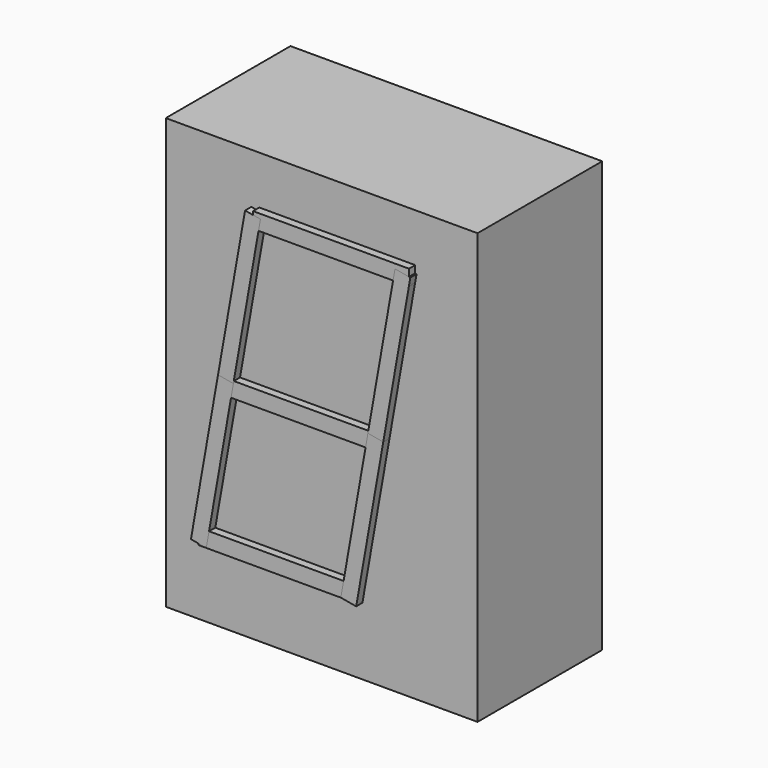
from build123d import *

# Parameters (mm, degrees)
BOX_W                  = 20
BOX_H                  = 10
BOX_DEPTH              = 27.6
BOX001_W               = 10
BOX001_H               = 4
BOX001_DEPTH           = 1
BOX002_W               = 10
BOX002_H               = 4
BOX002_DEPTH           = 1
BOX003_W               = 10
BOX003_H               = 4
BOX003_DEPTH           = 1
BOX004_W               = 10
BOX004_H               = 4
BOX004_DEPTH           = 1
BOX004_PLACEMENT_ANGLE = 280
BOX005_W               = 10
BOX005_H               = 4
BOX005_DEPTH           = 1
BOX005_PLACEMENT_ANGLE = 280
BOX006_W               = 10
BOX006_H               = 4
BOX006_DEPTH           = 1
BOX006_PLACEMENT_ANGLE = 280
BOX007_W               = 10
BOX007_H               = 4
BOX007_DEPTH           = 1
BOX007_PLACEMENT_ANGLE = 280


with BuildPart() as cube:
    # Box → Box (new body)
    with BuildSketch(Plane(origin=(2, 0, 0), x_dir=(1, 0, 0), z_dir=(0, 0, 1))):
        with Locations((10, 5)):
            Rectangle(BOX_W, BOX_H)
    extrude(amount=BOX_DEPTH)


with BuildPart() as cube001:
    # Box001 → Box001 (new body)
    with BuildSketch(Plane(origin=(4.5, -0.5, 4.5), x_dir=(1, 0, 0), z_dir=(0, 0, 1))):
        with Locations((5, 2)):
            Rectangle(BOX001_W, BOX001_H)
    extrude(amount=BOX001_DEPTH)


with BuildPart() as cube002:
    # Box002 → Box002 (new body)
    with BuildSketch(Plane(origin=(6, -0.5, 13.5), x_dir=(1, 0, 0), z_dir=(0, 0, 1))):
        with Locations((5, 2)):
            Rectangle(BOX002_W, BOX002_H)
    extrude(amount=BOX002_DEPTH)


with BuildPart() as cube003:
    # Box003 → Box003 (new body)
    with BuildSketch(Plane(origin=(8, -0.5, 23.5), x_dir=(1, 0, 0), z_dir=(0, 0, 1))):
        with Locations((5, 2)):
            Rectangle(BOX003_W, BOX003_H)
    extrude(amount=BOX003_DEPTH)


with BuildPart() as cube004:
    # Box004 → Box004 (new body)
    with BuildSketch(Plane.XY):
        with Locations((5, 2)):
            Rectangle(BOX004_W, BOX004_H)
    extrude(amount=BOX004_DEPTH)


with BuildPart() as cube004_1:
    # Box004 placement: moved
    add(cube004.part.moved(Location((5, -0.5, 4.5))).rotate(Axis((5, -0.5, 4.5), (0, 1, 0)), BOX004_PLACEMENT_ANGLE))


with BuildPart() as cube005:
    # Box005 → Box005 (new body)
    with BuildSketch(Plane.XY):
        with Locations((5, 2)):
            Rectangle(BOX005_W, BOX005_H)
    extrude(amount=BOX005_DEPTH)


with BuildPart() as cube005_1:
    # Box005 placement: moved
    add(cube005.part.moved(Location((14.616146, -0.5, 4.327554))).rotate(Axis((14.616146, -0.5, 4.327554), (0, 1, 0)), BOX005_PLACEMENT_ANGLE))


with BuildPart() as cube006:
    # Box006 → Box006 (new body)
    with BuildSketch(Plane.XY):
        with Locations((5, 2)):
            Rectangle(BOX006_W, BOX006_H)
    extrude(amount=BOX006_DEPTH)


with BuildPart() as cube006_1:
    # Box006 placement: moved
    add(cube006.part.moved(Location((6.736482, -0.5, 14.348078))).rotate(Axis((6.736482, -0.5, 14.348078), (0, 1, 0)), BOX006_PLACEMENT_ANGLE))


with BuildPart() as cube007:
    # Box007 → Box007 (new body)
    with BuildSketch(Plane.XY):
        with Locations((5, 2)):
            Rectangle(BOX007_W, BOX007_H)
    extrude(amount=BOX007_DEPTH)


with BuildPart() as cube007_1:
    # Box007 placement: moved
    add(cube007.part.moved(Location((16.352628, -0.5, 14.175631))).rotate(Axis((16.352628, -0.5, 14.175631), (0, 1, 0)), BOX007_PLACEMENT_ANGLE))


solid = Compound([cube.part, cube001.part, cube002.part, cube003.part, cube004_1.part, cube005_1.part, cube006_1.part, cube007_1.part])
